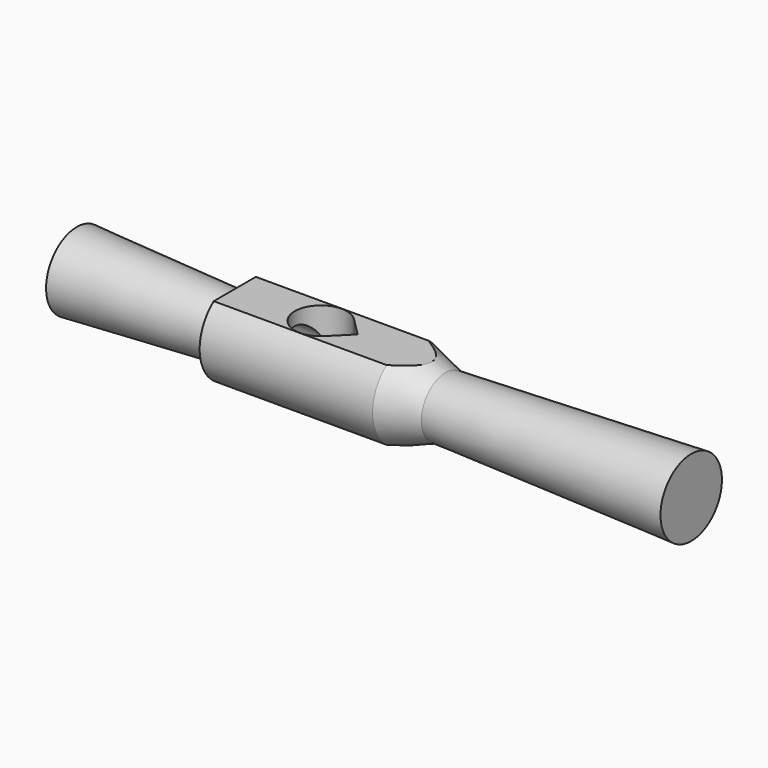
from build123d import *

# Parameters (mm, degrees)
F4_W     = 33.2953643874
F4_H     = 11.8776631271
F4_W_2   = 38.4760469206
F4_H_2   = 10.2350075657
F5_DEPTH = 12.7
F7_DEPTH = 10.63725
F8_R     = 3.175
F9_DEPTH = 33.2755937355


with BuildPart() as f1:
    # F0 (on Front) → F1 (revolve)
    with BuildSketch(Plane.XZ):
        Polygon((-38.1, 5.55625), (-38.1, 0), (0, 0), (50.8, 0), (50.8, 5.55625), (15.24, 4.3582081656), (15.24, 6.35), (-15.24, 6.35), (-15.24, 4.3582081656), align=None)
    revolve(axis=Axis((-19.05, 0, 0), (1, 0, 0)))

    # F2 (on Front) → F3 (revolve, cut)
    with BuildSketch(Plane.XZ):
        Polygon((9.7675969107, 6.35), (15.24, 4.3582081656), (15.24, 6.35), align=None)
    revolve(axis=Axis((15.7110644504, 0, 0), (1, 0, 0)), mode=Mode.SUBTRACT)

    # F4 (on Front) → F5 (cut, symmetric)
    with BuildSketch(Plane.XZ):
        with Locations((0.7880554905, 11.0188315635)):
            Rectangle(F4_W, F4_H)
        with Locations((-0.0332731377, -10.1975037828)):
            Rectangle(F4_W_2, F4_H_2)
    extrude(amount=F5_DEPTH, both=True, mode=Mode.SUBTRACT)

    # F6 (on face) → F7 (cut, through all)
    with BuildSketch(Plane.XY.offset(5.08)):
        with BuildLine():
            Line((2.54, 0), (-0.1260135359, 2.6660135359))
            ThreePointArc((-0.1260135359, 2.6660135359), (-6.5623395719, 0), (-0.1260135359, -2.6660135359))
            Line((-0.1260135359, -2.6660135359), (2.54, 0))
        make_face()
    extrude(amount=-F7_DEPTH, mode=Mode.SUBTRACT)

    # F8 (on face) → F9 (cut, through all)
    with BuildSketch(Plane(origin=(-38.1, 0, 0), x_dir=(0, -1, 0), z_dir=(-1, 0, 0))):
        Circle(F8_R)
    extrude(amount=-F9_DEPTH, mode=Mode.SUBTRACT)


solid = f1.part
